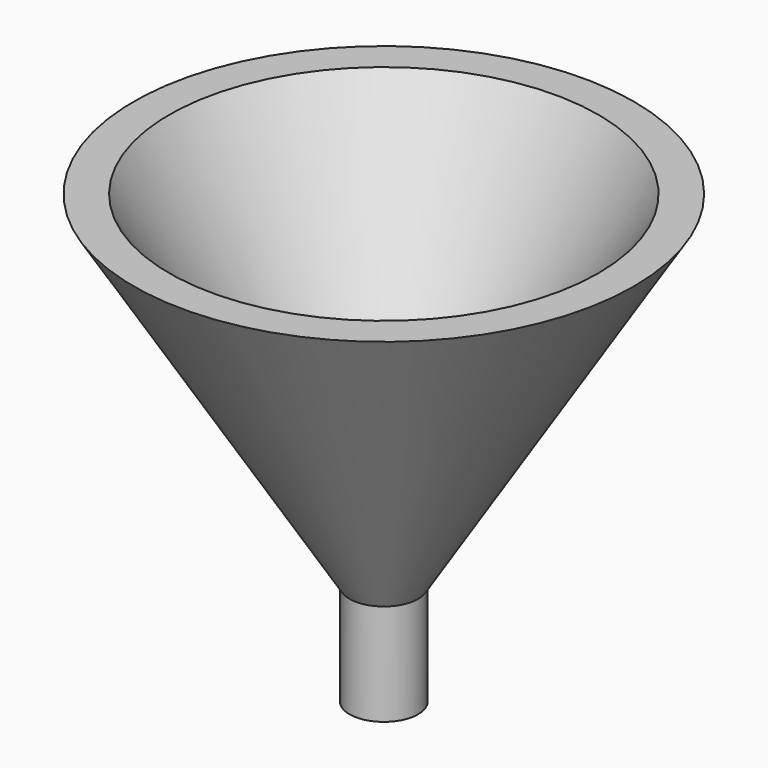
from build123d import *

# Parameters (mm, degrees)
F2_R     = 4.517351
F3_DEPTH = 25.4


with BuildPart() as f1:
    # F0 (on Front) → F1 (revolve)
    with BuildSketch(Plane.XZ):
        Polygon((0, 0), (0, -13.945098), (4.706471, -13.945098), (4.706471, 0), (34.339808, 47.413334), (29.45902, 47.413334), align=None)
    revolve(axis=Axis((0, 0, -6.972549), (0, 0, 1)))

    # F2 (on face) → F3 (cut)
    with BuildSketch(Plane(origin=(0, 0, -13.945098), x_dir=(1, 0, 0), z_dir=(0, 0, -1))):
        Circle(F2_R)
    extrude(amount=-F3_DEPTH, mode=Mode.SUBTRACT)


solid = f1.part
